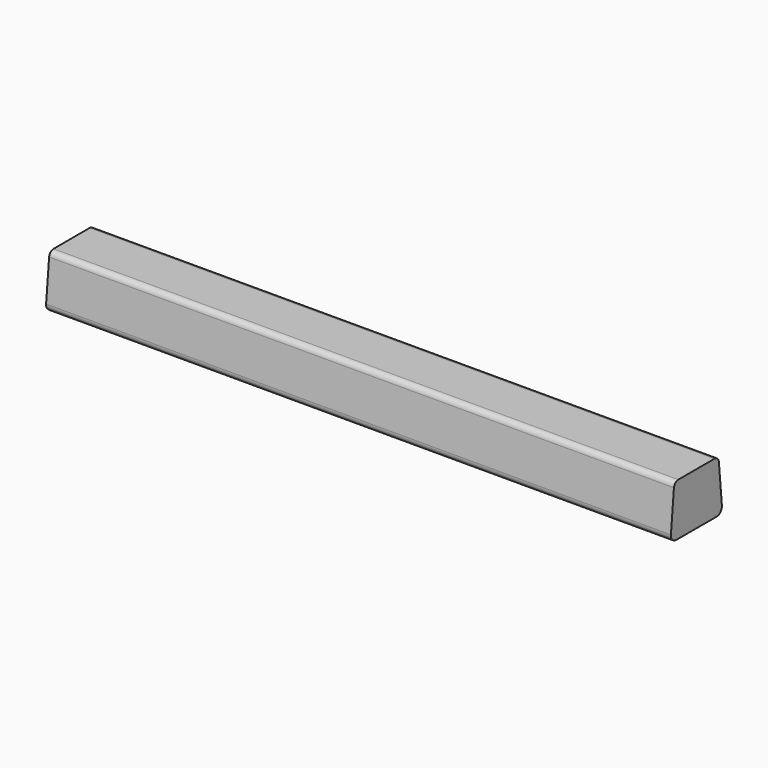
from build123d import *

# Parameters (mm, degrees)
F0_W     = 1219.2
F0_H     = 127
F1_DEPTH = 101.6
F3_DEPTH = 1219.2


with BuildPart() as f1:
    # F0 (on Top) → F1 (new body)
    with BuildSketch(Plane.XY):
        with Locations((609.6, 63.5)):
            Rectangle(F0_W, F0_H)
    extrude(amount=F1_DEPTH)

    # F2 (on face) → F3 (cut, through all)
    with BuildSketch(Plane.YZ.offset(1219.2)):
        with BuildLine():
            Line((9.579805, 101.6), (0, 101.6))
            Line((0, 101.6), (0, 0))
            Line((0, 0), (7.050204, 0))
            Line((7.050204, 0), (14.157143, 0))
            ThreePointArc((14.157143, 0), (4.627971, 4.21213), (1.328974, 14.094627))
            Line((1.328974, 14.094627), (8.66489, 91.896731))
            ThreePointArc((8.66489, 91.896731), (12.118215, 98.810986), (19.326112, 101.6))
            Line((19.326112, 101.6), (9.579805, 101.6))
        make_face()
        with BuildLine():
            Line((117.420195, 101.6), (107.673888, 101.6))
            ThreePointArc((107.673888, 101.6), (114.881785, 98.810986), (118.33511, 91.896731))
            Line((118.33511, 91.896731), (125.671026, 14.094627))
            ThreePointArc((125.671026, 14.094627), (122.372029, 4.21213), (112.842857, 0))
            Line((112.842857, 0), (119.949796, 0))
            Line((119.949796, 0), (127, 0))
            Line((127, 0), (127, 101.6))
            Line((127, 101.6), (117.420195, 101.6))
        make_face()
    extrude(amount=-F3_DEPTH, mode=Mode.SUBTRACT)


solid = f1.part
